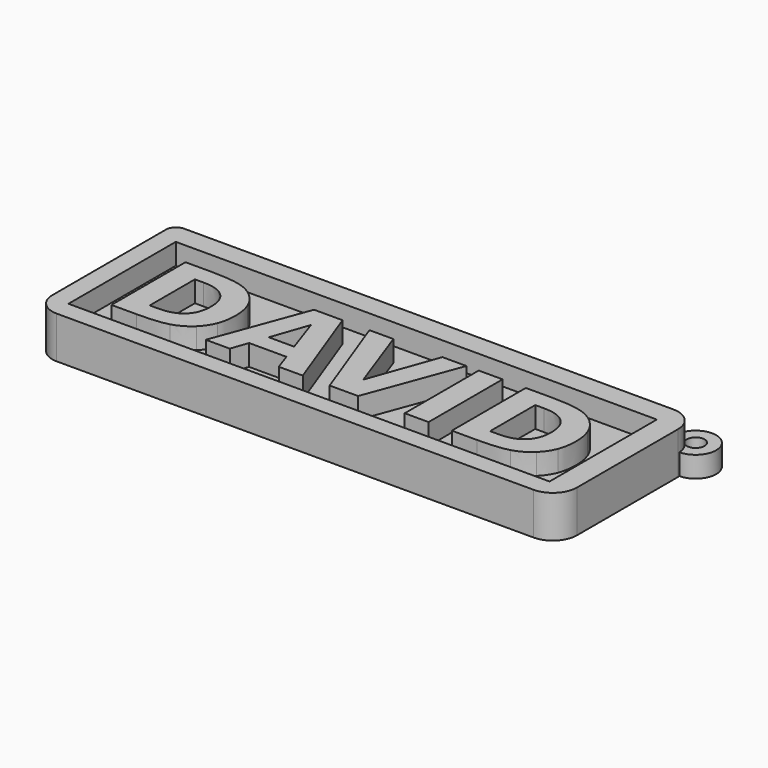
from build123d import *

# Parameters (mm, degrees)
SKETCH002_R      = 2.929284
SKETCH002_R_2    = 1.279954
PAD002_DEPTH     = 3
PATH4830_W       = 13.200666
PATH4830_H       = 3.404056
EXTRUDE005_DEPTH = 3
EXTRUDE006_DEPTH = 3
EXTRUDE007_DEPTH = 3
EXTRUDE003_DEPTH = 3
EXTRUDE002_DEPTH = 3
EXTRUDE_DEPTH    = 3
EXTRUDE001_DEPTH = 3
EXTRUDE004_DEPTH = 3
SKETCH_W         = 68.637524
SKETCH_H         = 19.139309
PAD_DEPTH        = 3
PAD001_DEPTH     = 6


with BuildPart() as obj1:
    # Sketch002 → Pad002 (new body)
    with BuildSketch(Plane.XY):
        with Locations((37.034641, 12.51759)):
            Circle(SKETCH002_R)
        with Locations((37.034641, 12.51759)):
            Circle(SKETCH002_R_2, mode=Mode.SUBTRACT)
    extrude(amount=PAD002_DEPTH)


with BuildPart() as extrude005:
    # path4830 → Extrude005 (new body)
    with BuildSketch(Plane(origin=(12.588005, -0.084494, 0), x_dir=(0, -1, 0), z_dir=(0, 0, -1))):
        Rectangle(PATH4830_W, PATH4830_H)
    extrude(amount=-EXTRUDE005_DEPTH)


with BuildPart() as d2_corte:
    # path4832 → Extrude006 (new body)
    with BuildSketch(Plane(origin=(23.76392, -0.084496, 0), x_dir=(0, 1, 0), z_dir=(0, 0, 1))):
        with BuildLine():
            Line((4.027397, 2.754193), (-4.027397, 2.754193))
            Line((-4.027397, 2.754193), (-4.027397, 1.534037))
            add(Edge.make_bspline(
                [(-4.027397, 1.534037), (-4.027397, -0.552604), (-2.992918, -1.64898)],
                knots=[0, 0, 0, 1, 1, 1], degree=2))
            add(Edge.make_bspline(
                [(-2.992918, -1.64898), (-1.958435, -2.754193), (0.013263, -2.754193)],
                knots=[0, 0, 0, 1, 1, 1], degree=2))
            add(Edge.make_bspline(
                [(0.013263, -2.754193), (1.976123, -2.754193), (3.00176, -1.657821)],
                knots=[0, 0, 0, 1, 1, 1], degree=2))
            add(Edge.make_bspline(
                [(3.00176, -1.657821), (4.027397, -0.561446), (4.027397, 1.534037)],
                knots=[0, 0, 0, 1, 1, 1], degree=2))
            Line((4.027397, 1.534037), (4.027397, 2.754193))
        make_face()
    extrude(amount=EXTRUDE006_DEPTH)


with BuildPart() as d2:
    # path4832001 → Extrude007 (new body)
    with BuildSketch(Plane(origin=(23.816969, -0.084494, 0), x_dir=(0, -1, 0), z_dir=(0, 0, -1))):
        with BuildLine():
            Line((-6.600333, 6.211297), (-6.600333, 2.621564))
            add(Edge.make_bspline(
                [(-6.600333, 2.621564), (-6.600333, -0.384617), (-6.167086, -1.852338)],
                knots=[0, 0, 0, 1, 1, 1], degree=2))
            add(Edge.make_bspline(
                [(-6.167086, -1.852338), (-5.742686, -3.328901), (-4.717049, -4.381068)],
                knots=[0, 0, 0, 1, 1, 1], degree=2))
            add(Edge.make_bspline(
                [(-4.717049, -4.381068), (-3.824034, -5.309445), (-2.656929, -5.760371)],
                knots=[0, 0, 0, 1, 1, 1], degree=2))
            add(Edge.make_bspline(
                [(-2.656929, -5.760371), (-1.489823, -6.211297), (-0.013261, -6.211297)],
                knots=[0, 0, 0, 1, 1, 1], degree=2))
            add(Edge.make_bspline(
                [(-0.013261, -6.211297), (1.480986, -6.211297), (2.656933, -5.760371)],
                knots=[0, 0, 0, 1, 1, 1], degree=2))
            add(Edge.make_bspline(
                [(2.656933, -5.760371), (3.824038, -5.309445), (4.717053, -4.381068)],
                knots=[0, 0, 0, 1, 1, 1], degree=2))
            add(Edge.make_bspline(
                [(4.717053, -4.381068), (5.74269, -3.320059), (6.175932, -1.834655)],
                knots=[0, 0, 0, 1, 1, 1], degree=2))
            add(Edge.make_bspline(
                [(6.175932, -1.834655), (6.600333, -0.34925), (6.600333, 2.621564)],
                knots=[0, 0, 0, 1, 1, 1], degree=2))
            Line((6.600333, 2.621564), (6.600333, 6.211297))
            Line((6.600333, 6.211297), (-6.600333, 6.211297))
        make_face()
    extrude(amount=-EXTRUDE007_DEPTH)

    # Cut001: cut D2-Corte
    add(d2_corte.part, mode=Mode.SUBTRACT)


with BuildPart() as a_corte:
    # path4826001 → Extrude003 (new body)
    with BuildSketch(Plane(origin=(-10.577261, 0.795254, 0), x_dir=(0, 1, 0), z_dir=(0, 0, 1))):
        Polygon((-2.625987, 1.808129), (-2.625987, -1.808129), (2.625987, -0.004421), align=None)
    extrude(amount=EXTRUDE003_DEPTH)


with BuildPart() as a:
    # path4826 → Extrude002 (new body)
    with BuildSketch(Plane(origin=(-10.577261, -0.084494, 0), x_dir=(0, -1, 0), z_dir=(0, 0, -1))):
        Polygon((4.195393, -2.665773), (4.195393, 2.656935), (6.600333, 3.496895), (6.600333, 6.918635), (-6.600333, 2.029174), (-6.600333, -2.029169), (6.600333, -6.918635), (6.600333, -3.496895), align=None)
    extrude(amount=-EXTRUDE002_DEPTH)

    # Cut: cut A-Corte
    add(a_corte.part, mode=Mode.SUBTRACT)


with BuildPart() as d1_corte:
    # path4824 → Extrude (new body)
    with BuildSketch(Plane(origin=(-24.794724, -0.084496, 0), x_dir=(0, 1, 0), z_dir=(0, 0, 1))):
        with BuildLine():
            Line((4.027397, 2.754193), (-4.027397, 2.754193))
            Line((-4.027397, 2.754193), (-4.027397, 1.534037))
            add(Edge.make_bspline(
                [(-4.027397, 1.534037), (-4.027397, -0.552609), (-2.992918, -1.64898)],
                knots=[0, 0, 0, 1, 1, 1], degree=2))
            add(Edge.make_bspline(
                [(-2.992918, -1.64898), (-1.958435, -2.754193), (0.013263, -2.754193)],
                knots=[0, 0, 0, 1, 1, 1], degree=2))
            add(Edge.make_bspline(
                [(0.013263, -2.754193), (1.976123, -2.754193), (3.00176, -1.657821)],
                knots=[0, 0, 0, 1, 1, 1], degree=2))
            add(Edge.make_bspline(
                [(3.00176, -1.657821), (4.027397, -0.56145), (4.027397, 1.534037)],
                knots=[0, 0, 0, 1, 1, 1], degree=2))
            Line((4.027397, 1.534037), (4.027397, 2.754193))
        make_face()
    extrude(amount=EXTRUDE_DEPTH)


with BuildPart() as d1:
    # path4824001 → Extrude001 (new body)
    with BuildSketch(Plane(origin=(-24.741674, -0.084494, 0), x_dir=(0, -1, 0), z_dir=(0, 0, -1))):
        with BuildLine():
            Line((-6.600333, 6.211299), (-6.600333, 2.621566))
            add(Edge.make_bspline(
                [(-6.600333, 2.621566), (-6.600333, -0.384615), (-6.167086, -1.852336)],
                knots=[0, 0, 0, 1, 1, 1], degree=2))
            add(Edge.make_bspline(
                [(-6.167086, -1.852336), (-5.742686, -3.328903), (-4.717049, -4.381066)],
                knots=[0, 0, 0, 1, 1, 1], degree=2))
            add(Edge.make_bspline(
                [(-4.717049, -4.381066), (-3.824034, -5.309443), (-2.656929, -5.760369)],
                knots=[0, 0, 0, 1, 1, 1], degree=2))
            add(Edge.make_bspline(
                [(-2.656929, -5.760369), (-1.489823, -6.211299), (-0.013261, -6.211299)],
                knots=[0, 0, 0, 1, 1, 1], degree=2))
            add(Edge.make_bspline(
                [(-0.013261, -6.211299), (1.480986, -6.211299), (2.656933, -5.760369)],
                knots=[0, 0, 0, 1, 1, 1], degree=2))
            add(Edge.make_bspline(
                [(2.656933, -5.760369), (3.824038, -5.309443), (4.717053, -4.381066)],
                knots=[0, 0, 0, 1, 1, 1], degree=2))
            add(Edge.make_bspline(
                [(4.717053, -4.381066), (5.74269, -3.320062), (6.175932, -1.834653)],
                knots=[0, 0, 0, 1, 1, 1], degree=2))
            add(Edge.make_bspline(
                [(6.175932, -1.834653), (6.600333, -0.349248), (6.600333, 2.621566)],
                knots=[0, 0, 0, 1, 1, 1], degree=2))
            Line((6.600333, 2.621566), (6.600333, 6.211299))
            Line((6.600333, 6.211299), (-6.600333, 6.211299))
        make_face()
    extrude(amount=-EXTRUDE001_DEPTH)

    # Cut002: cut D1-Corte
    add(d1_corte.part, mode=Mode.SUBTRACT)


with BuildPart() as obj2:
    # path4828 → Extrude004 (new body)
    with BuildSketch(Plane(origin=(2.207842, -0.084494, 0), x_dir=(0, -1, 0), z_dir=(0, 0, -1))):
        Polygon((-6.600333, 6.918635), (-6.600333, 3.496895), (3.143226, -0.004421), (-6.600333, -3.496895), (-6.600333, -6.918635), (6.600333, -2.029169), (6.600333, 2.029169), align=None)
    extrude(amount=-EXTRUDE004_DEPTH)

    # Fusion: union Extrude005, D2, A, D1
    add(extrude005.part)
    add(d2.part)
    add(a.part)
    add(d1.part)


with BuildPart() as obj2_1:
    # Fusion placement: moved
    add(obj2.part.moved(Location((0, 0, 3))))


with BuildPart() as corte_base:
    # Sketch → Pad (new body)
    with BuildSketch(Plane.XY.offset(3)):
        with Locations((-0.549982, 0.109995)):
            Rectangle(SKETCH_W, SKETCH_H)
    extrude(amount=PAD_DEPTH)


with BuildPart() as obj3:
    # Sketch001 → Pad001 (new body)
    with BuildSketch(Plane.XY):
        with BuildLine():
            Line((-36.122698, 12.741634), (33.658366, 12.741634))
            ThreePointArc((37.068661, 9.33134), (36.069809, 11.742782), (33.658366, 12.741634))
            Line((37.068661, 9.33134), (37.068661, -8.689686))
            ThreePointArc((33.627401, -12.130946), (36.060739, -11.123024), (37.068661, -8.689686))
            Line((33.627401, -12.130946), (-34.409048, -12.130946))
            ThreePointArc((-37.57005, -8.969945), (-36.644214, -11.20511), (-34.409048, -12.130946))
            Line((-37.57005, -8.969945), (-37.57005, 11.294283))
            ThreePointArc((-36.122698, 12.741634), (-37.14613, 12.317715), (-37.57005, 11.294283))
        make_face()
    extrude(amount=PAD001_DEPTH)

    # Cut003: cut Corte-Base
    add(corte_base.part, mode=Mode.SUBTRACT)

    # Fusion001: union obj2
    add(obj2_1.part)

    # Fusion002: union obj1
    add(obj1.part)


solid = obj3.part
